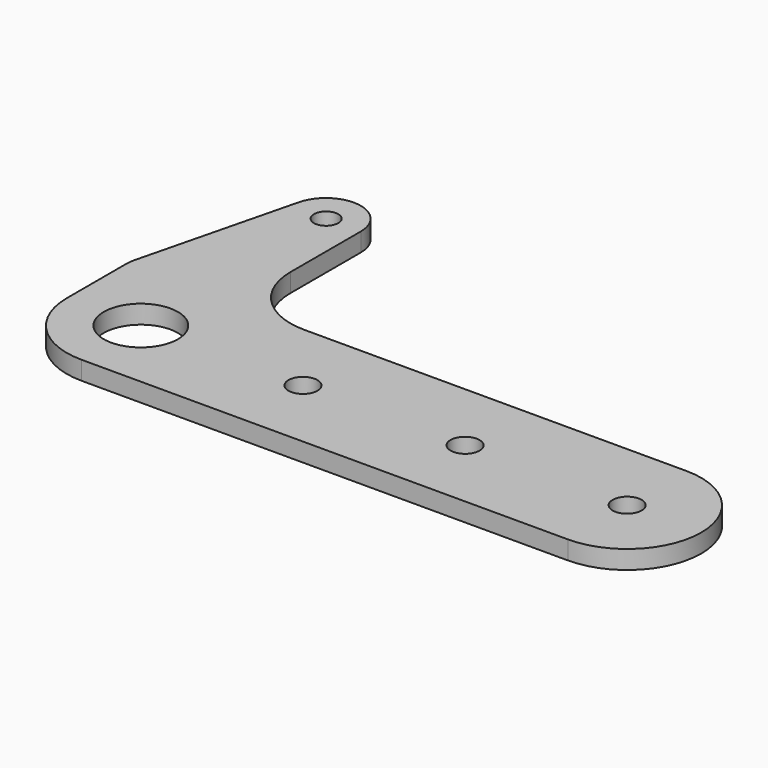
from build123d import *

# Parameters (mm, degrees)
SKETCH_R   = 16
SKETCH_R_2 = 6.25
PAD_DEPTH  = 8


with BuildPart() as part:
    # Sketch → Pad (new body)
    with BuildSketch(Plane.XY):
        with BuildLine():
            ThreePointArc((-32, 0), (-22.627417, -22.627417), (0, -32))
            Line((0, -32), (210, -32))
            ThreePointArc((210, -32), (242, 0), (210, 32))
            Line((45, 32), (210, 32))
            ThreePointArc((15, 62), (23.786797, 40.786797), (45, 32))
            Line((15, 100), (15, 62))
            ThreePointArc((15, 100), (10.606602, 110.606602), (0, 115))
            Line((0, 115), (-0.1, 115))
            ThreePointArc((-0.1, 115), (-9.335368, 111.819813), (-14.65471, 103.62773))
            Line((-14.65471, 103.62773), (-31.55471, 35.82373))
            ThreePointArc((-31.55471, 35.82373), (-31.888261, 34.023479), (-32, 32.196))
            Line((-32, 32.196), (-32, 0))
        make_face()
        Circle(SKETCH_R, mode=Mode.SUBTRACT)
        with Locations((70, 0)):
            Circle(SKETCH_R_2, mode=Mode.SUBTRACT)
        with Locations((140, 0)):
            Circle(SKETCH_R_2, mode=Mode.SUBTRACT)
        with Locations((210, 0)):
            Circle(SKETCH_R_2, mode=Mode.SUBTRACT)
        with BuildLine():
            ThreePointArc((-1.447096, 105.046624), (-5.046624, 98.552904), (1.447096, 94.953376))
            ThreePointArc((1.447096, 94.953376), (5.046624, 101.447096), (-1.447096, 105.046624))
        make_face(mode=Mode.SUBTRACT)
    extrude(amount=PAD_DEPTH)


solid = part.part
